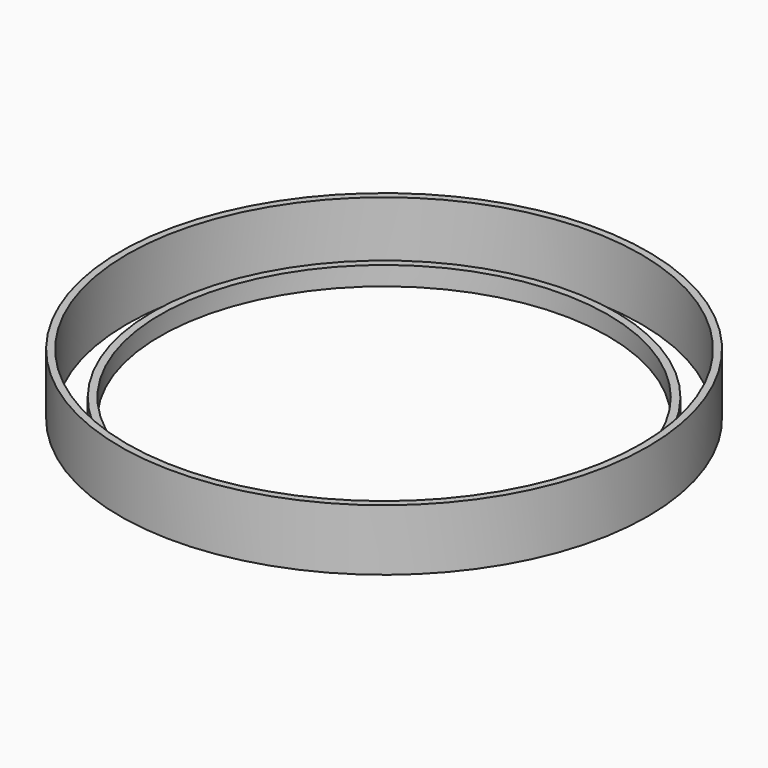
from build123d import *

# Parameters (mm, degrees)
F0_R     = 28
F0_R_2   = 27.25
F1_DEPTH = 6.5
F0_R_3   = 24.55
F0_R_4   = 23.75
F2_DEPTH = 2


with BuildPart() as f1:
    # F0 (on Top) → F1 (new body)
    with BuildSketch(Plane.XY):
        Circle(F0_R)
        Circle(F0_R_2, mode=Mode.SUBTRACT)
    extrude(amount=F1_DEPTH)


with BuildPart() as f2:
    # F0 (on Top) → F2 (new body)
    with BuildSketch(Plane.XY):
        Circle(F0_R_3)
        Circle(F0_R_4, mode=Mode.SUBTRACT)
    extrude(amount=F2_DEPTH)


solid = Compound([f1.part, f2.part])
